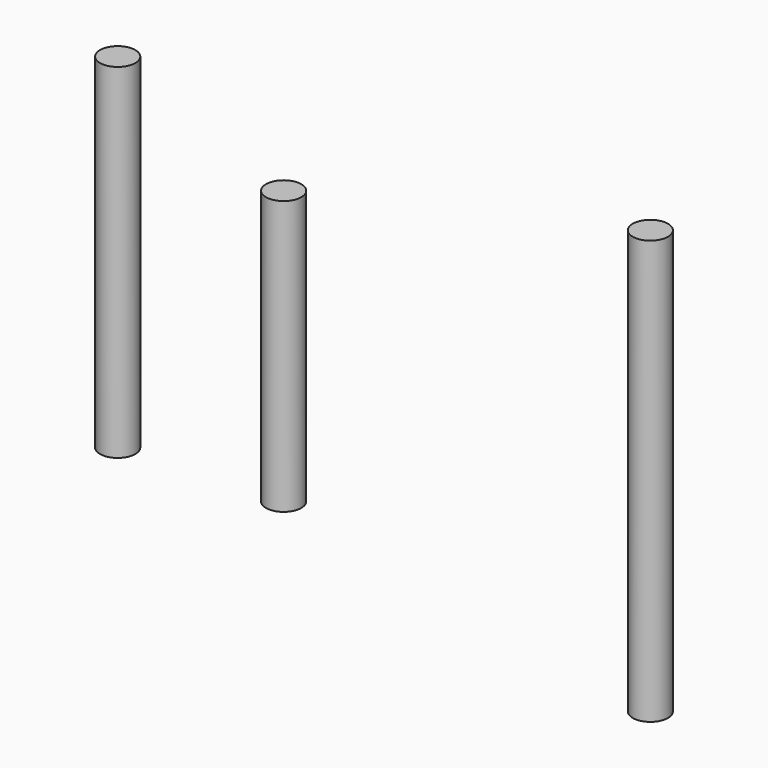
from build123d import *

# Parameters (mm, degrees)
F0_R     = 6.344964
F1_DEPTH = 152.4
F2_R     = 6.35
F3_DEPTH = 98.425
F4_R     = 6.35
F5_DEPTH = 123.825


with BuildPart() as f1:
    # F0 (on Top) → F1 (new body)
    with BuildSketch(Plane.XY):
        with Locations((208.062679, 3.859816)):
            Circle(F0_R)
    extrude(amount=F1_DEPTH)


with BuildPart() as f3:
    # F2 (on Top) → F3 (new body)
    with BuildSketch(Plane.XY):
        with Locations((47.822595, 39.263844)):
            Circle(F2_R)
    extrude(amount=F3_DEPTH)


with BuildPart() as f5:
    # F4 (on Top) → F5 (new body)
    with BuildSketch(Plane.XY):
        with Locations((-9.07302, 35.770386)):
            Circle(F4_R)
    extrude(amount=F5_DEPTH)


solid = Compound([f1.part, f3.part, f5.part])
